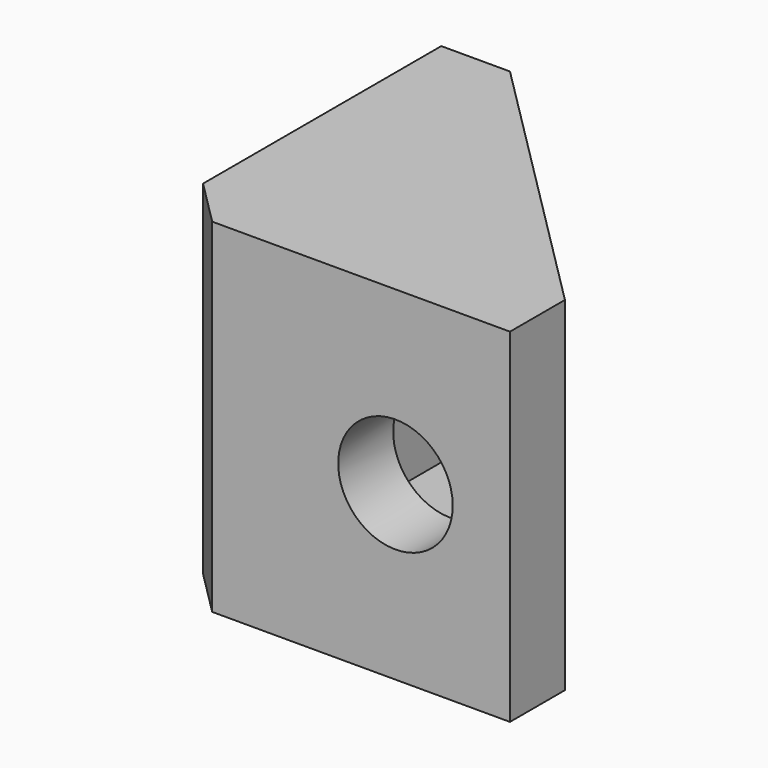
from build123d import *

# Parameters (mm, degrees)
PAD_DEPTH       = 15
SKETCH001_W     = 15
SKETCH001_H     = 15
POCKET_DEPTH    = 12
SKETCH002_R     = 2.5
POCKET001_DEPTH = 5
SKETCH003_R     = 2.5
POCKET002_DEPTH = 19
CHAMFER_SIZE    = 2


with BuildPart() as part:
    # Sketch → Pad (new body)
    with BuildSketch(Plane.XY):
        Polygon((-15, 15), (-12, 15), (0, 3), (0, 0), (-15, 0), align=None)
    extrude(amount=PAD_DEPTH)

    # Sketch001 → Pocket (cut)
    with BuildSketch(Plane.XY.offset(1.5)):
        with Locations((-4.5, 10.5)):
            Rectangle(SKETCH001_W, SKETCH001_H)
    extrude(amount=POCKET_DEPTH, mode=Mode.SUBTRACT)

    # Sketch002 → Pocket001 (cut)
    with BuildSketch(Plane.XZ):
        with Locations((-4.9995, 7.5)):
            Circle(SKETCH002_R)
    extrude(amount=-POCKET001_DEPTH, mode=Mode.SUBTRACT)

    # Sketch003 → Pocket002 (cut)
    with BuildSketch(Plane.YZ):
        with Locations((9.999, 7.5)):
            Circle(SKETCH003_R)
    extrude(amount=-POCKET002_DEPTH, mode=Mode.SUBTRACT)

    # Chamfer
    chamfer_edges = [part.edges().sort_by_distance(p)[0] for p in [
        (-15, 0, 7.5),
    ]]
    chamfer(chamfer_edges, length=CHAMFER_SIZE)


solid = part.part
